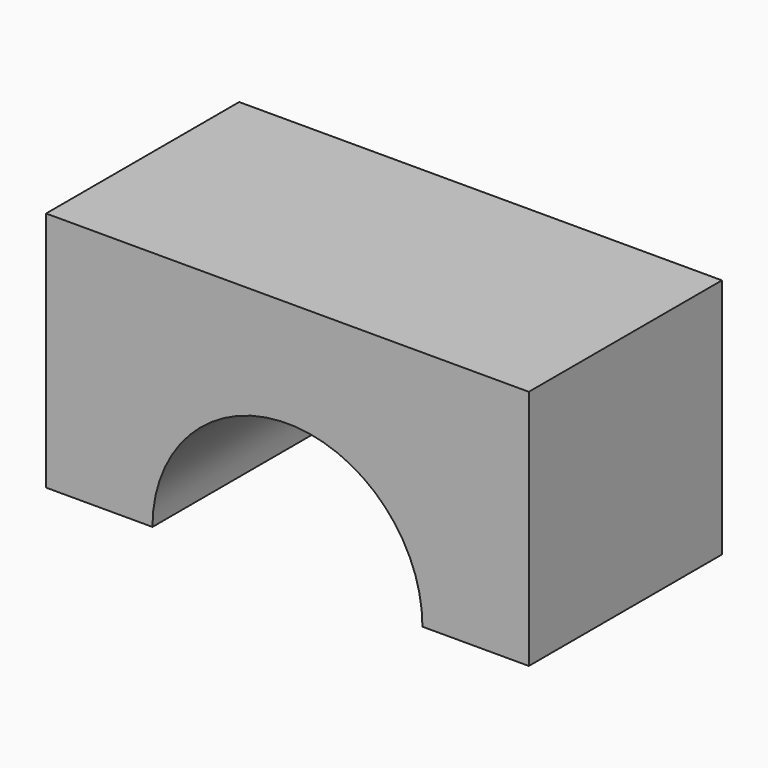
from build123d import *

# Parameters (mm, degrees)
F0_W     = 59
F0_H     = 59
F1_DEPTH = 29.5
F3_DEPTH = 29.501
F4_DEPTH = 29.501


with BuildPart() as f1:
    # F0 (on Front) → F1 (new body)
    with BuildSketch(Plane.XZ):
        Rectangle(F0_W, F0_H)
    extrude(amount=F1_DEPTH)

    # F2 (on face) → F3 (cut, through all)
    with BuildSketch(Plane.XZ.offset(29.5)):
        with BuildLine():
            Line((-16.5, 0), (16.5, 0))
            ThreePointArc((16.5, 0), (0, 16.5), (-16.5, 0))
        make_face()
        with BuildLine():
            ThreePointArc((-16.5, 0), (0, -16.5), (16.5, 0))
            Line((16.5, 0), (-16.5, 0))
        make_face()
    extrude(amount=-F3_DEPTH, mode=Mode.SUBTRACT)

    # F2 (on face) → F4 (cut, through all)
    with BuildSketch(Plane.XZ.offset(29.5)):
        with BuildLine():
            Line((-16.5, 0), (16.5, 0))
            ThreePointArc((16.5, 0), (0, 16.5), (-16.5, 0))
        make_face()
        with BuildLine():
            Line((29.5, 0), (16.5, 0))
            ThreePointArc((16.5, 0), (0, -16.5), (-16.5, 0))
            Line((-16.5, 0), (-29.5, 0))
            Line((-29.5, 0), (-29.5, -29.5))
            Line((-29.5, -29.5), (29.5, -29.5))
            Line((29.5, -29.5), (29.5, 0))
        make_face()
        with BuildLine():
            ThreePointArc((-16.5, 0), (0, -16.5), (16.5, 0))
            Line((16.5, 0), (-16.5, 0))
        make_face()
    extrude(amount=-F4_DEPTH, mode=Mode.SUBTRACT)


solid = f1.part
